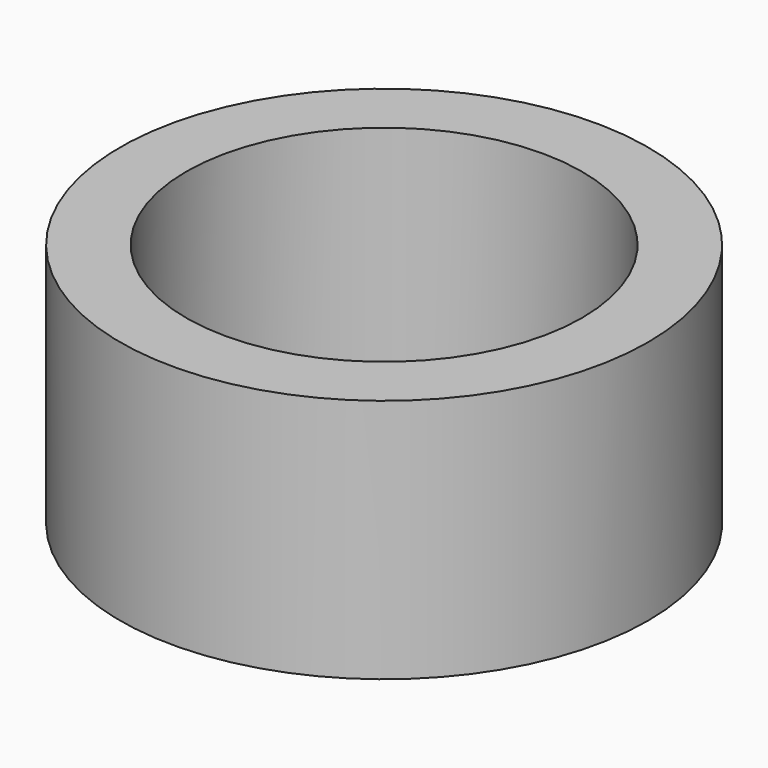
from build123d import *

# Parameters (mm, degrees)
CYLINDER014_R     = 10.5
CYLINDER014_DEPTH = 13
CYLINDER013_R     = 14
CYLINDER013_DEPTH = 13


with BuildPart() as cylinder014:
    # Cylinder014 → Cylinder014 (new body)
    with BuildSketch(Plane.XY.offset(-6)):
        Circle(CYLINDER014_R)
    extrude(amount=CYLINDER014_DEPTH)


with BuildPart() as cut091:
    # Cylinder013 → Cylinder013 (new body)
    with BuildSketch(Plane.XY.offset(-6)):
        Circle(CYLINDER013_R)
    extrude(amount=CYLINDER013_DEPTH)

    # Cut091: cut Cylinder014
    add(cylinder014.part, mode=Mode.SUBTRACT)


solid = cut091.part
